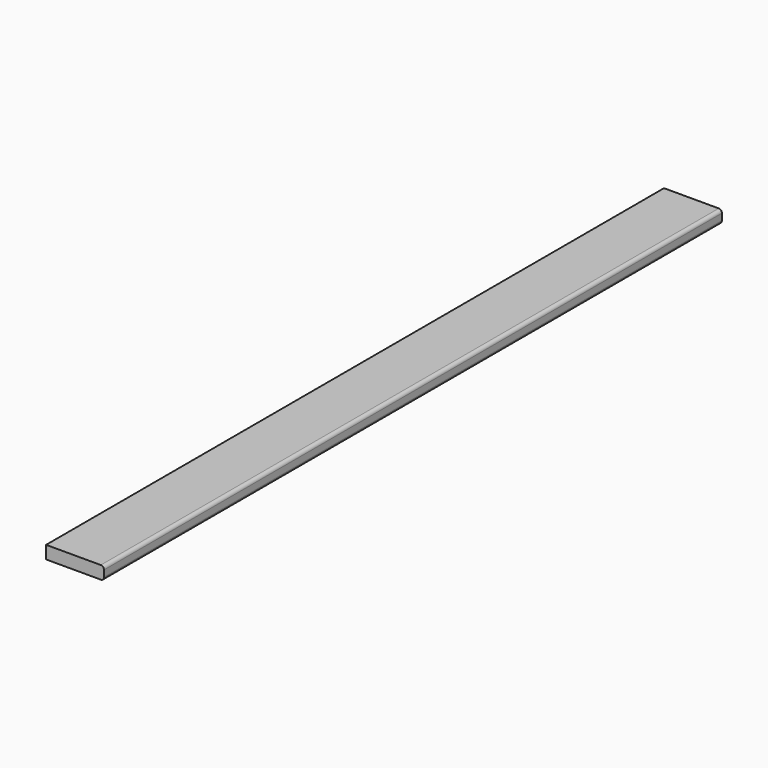
from build123d import *

# Parameters (mm, degrees)
F1_DEPTH = 1524


with BuildPart() as f1:
    # F0 (on Front) → F1 (new body)
    with BuildSketch(Plane.XZ):
        with BuildLine():
            Line((3577.983837, 164.328301), (3577.983837, 138.928301))
            Line((3577.983837, 138.928301), (3685.933837, 138.928301))
            ThreePointArc((3685.933837, 138.928301), (3690.423965, 140.788172), (3692.283837, 145.278301))
            Line((3692.283837, 145.278301), (3692.283837, 157.978301))
            ThreePointArc((3692.283837, 157.978301), (3690.423965, 162.468429), (3685.933837, 164.328301))
            Line((3685.933837, 164.328301), (3577.983837, 164.328301))
        make_face()
    extrude(amount=F1_DEPTH)


solid = f1.part
